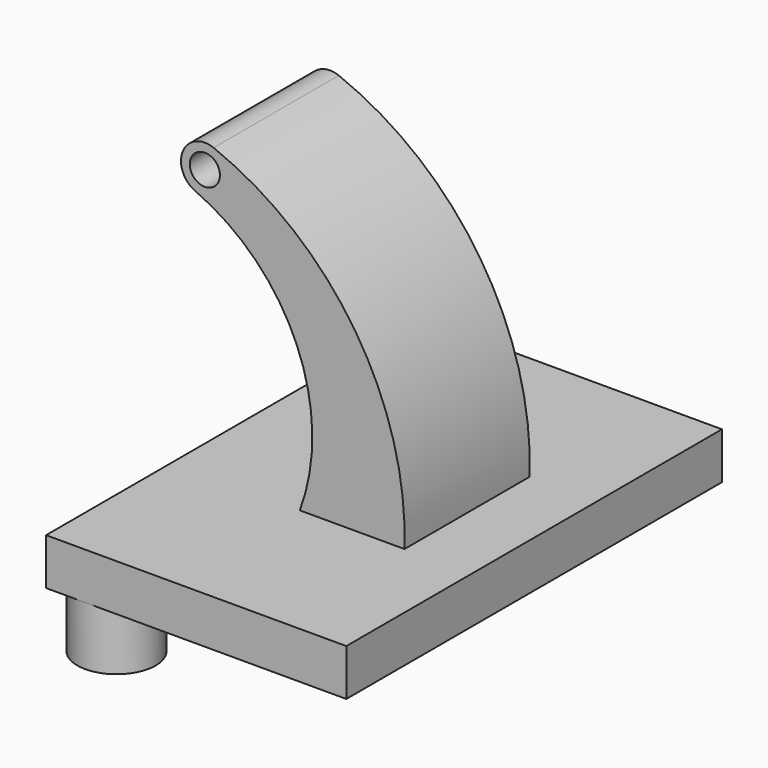
from build123d import *

# Parameters (mm, degrees)
F1_DEPTH = 38.1
F0_R     = 2.445033
F2_DEPTH = 12.7
F3_R     = 6.35
F4_DEPTH = 9.525


with BuildPart() as f1:
    # F0 (on Front) → F1 (new body, symmetric)
    with BuildSketch(Plane.XZ):
        Polygon((0, 7.562613), (0, 0), (48.733659, 0), (48.733659, 7.562613), (37.851159, 7.562613), (20.859193, 7.562613), align=None)
    extrude(amount=F1_DEPTH, both=True)

    # F0 (on Front) → F2 (join, symmetric)
    with BuildSketch(Plane.XZ):
        with BuildLine():
            ThreePointArc((3.904653, 47.668676), (20.394154, 31.002756), (20.859193, 7.562613))
            Line((20.859193, 7.562613), (37.851159, 7.562613))
            ThreePointArc((37.851159, 7.562613), (29.868225, 36.114692), (6.873098, 54.82759))
            ThreePointArc((6.873098, 54.82759), (1.871612, 52.706566), (3.904653, 47.668676))
        make_face()
        with Locations((5.451619, 51.222116)):
            Circle(F0_R, mode=Mode.SUBTRACT)
    extrude(amount=F2_DEPTH, both=True)

    # F3 (on face) → F4 (join)
    with BuildSketch(Plane(origin=(0, 0, 0), x_dir=(1, 0, 0), z_dir=(0, 0, -1))):
        with Locations((6.35, -31.75)):
            Circle(F3_R)
        with Locations((6.35, 31.75)):
            Circle(F3_R)
    extrude(amount=F4_DEPTH)


solid = f1.part
